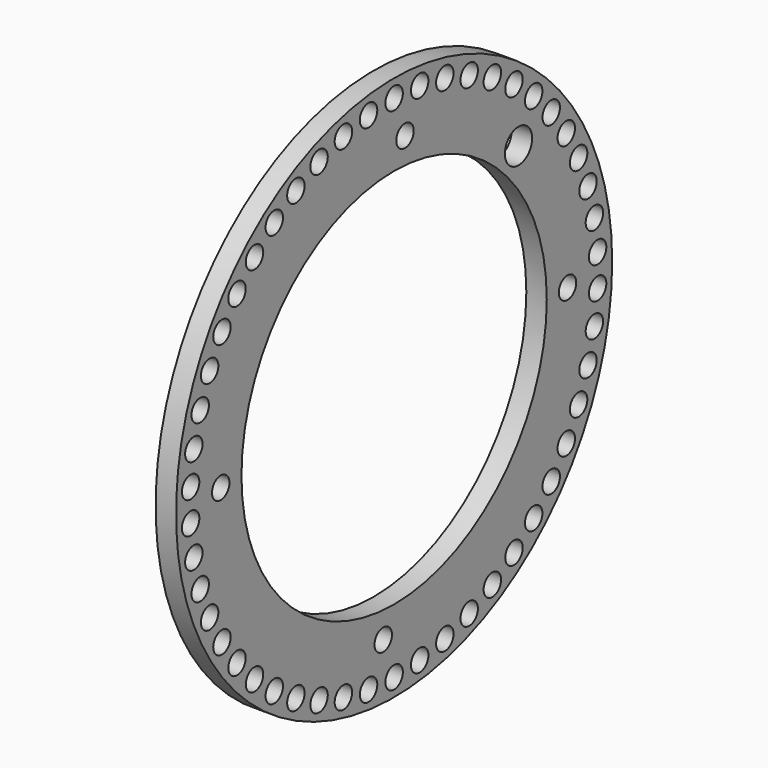
from build123d import *

# Parameters (mm, degrees)
SKETCH_R           = 40
SKETCH_R_2         = 28
PAD_DEPTH          = 3
SKETCH001_R        = 1.6
POCKET_DEPTH       = 5
POLARPATTERN_COUNT = 50
SKETCH002_R        = 1.6
SKETCH002_R_2      = 2.5
POCKET001_DEPTH    = 3.001


with BuildPart() as part:
    # Sketch → Pad (new body)
    with BuildSketch(Plane.YZ):
        Circle(SKETCH_R)
        Circle(SKETCH_R_2, mode=Mode.SUBTRACT)
    extrude(amount=PAD_DEPTH)

    # Sketch001 (on Face4 of Pad) → Pocket (cut)
    with BuildSketch(Plane.YZ.offset(3)):
        with Locations((0, 37.4)):
            Circle(SKETCH001_R)
    pocket = extrude(amount=-POCKET_DEPTH, mode=Mode.SUBTRACT)

    # PolarPattern: Pocket ×50 about axis
    polarpattern_axis = Axis((3, 0, 0), (1, 0, 0))
    for i in range(1, POLARPATTERN_COUNT):
        add(pocket.rotate(polarpattern_axis, i * 360 / POLARPATTERN_COUNT), mode=Mode.SUBTRACT)

    # Sketch002 (on Face3 of PolarPattern) → Pocket001 (cut, through all)
    with BuildSketch(Plane.YZ.offset(3)):
        with Locations((1.997044, 31.742101)):
            Circle(SKETCH002_R)
        with Locations((31.804861, 0)):
            Circle(SKETCH002_R)
        with Locations((-31.804861, 0)):
            Circle(SKETCH002_R)
        with Locations((-1.997044, -31.742101)):
            Circle(SKETCH002_R)
        with Locations((22.817195, 21.948869)):
            Circle(SKETCH002_R_2)
    extrude(amount=-POCKET001_DEPTH, mode=Mode.SUBTRACT)


solid = part.part
